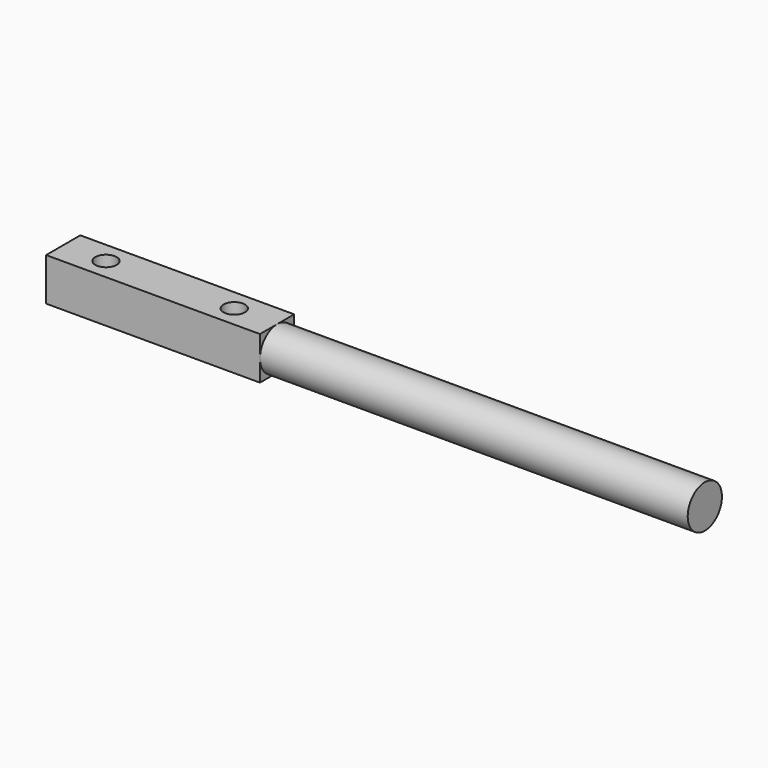
from build123d import *

# Parameters (mm, degrees)
F0_W     = 127
F0_H     = 6.35
F2_W     = 12.7
F2_H     = 12.7
F3_DEPTH = 63.5
F4_R     = 3.175
F5_DEPTH = 127


with BuildPart() as f1:
    # F0 (on Front) → F1 (revolve)
    with BuildSketch(Plane.XZ):
        with Locations((63.5, 3.175)):
            Rectangle(F0_W, F0_H)
    revolve(axis=Axis((63.5, 0, 0), (1, 0, 0)))

    # F2 (on face) → F3 (join)
    with BuildSketch(Plane(origin=(0, 0, 0), x_dir=(0, -1, 0), z_dir=(-1, 0, 0))):
        Rectangle(F2_W, F2_H)
    extrude(amount=F3_DEPTH)

    # F4 (on face) → F5 (cut)
    with BuildSketch(Plane.XY.offset(6.35)):
        with Locations((-50.8, 0)):
            Circle(F4_R)
        with Locations((-12.7, 0)):
            Circle(F4_R)
    extrude(amount=-F5_DEPTH, mode=Mode.SUBTRACT)


solid = f1.part
